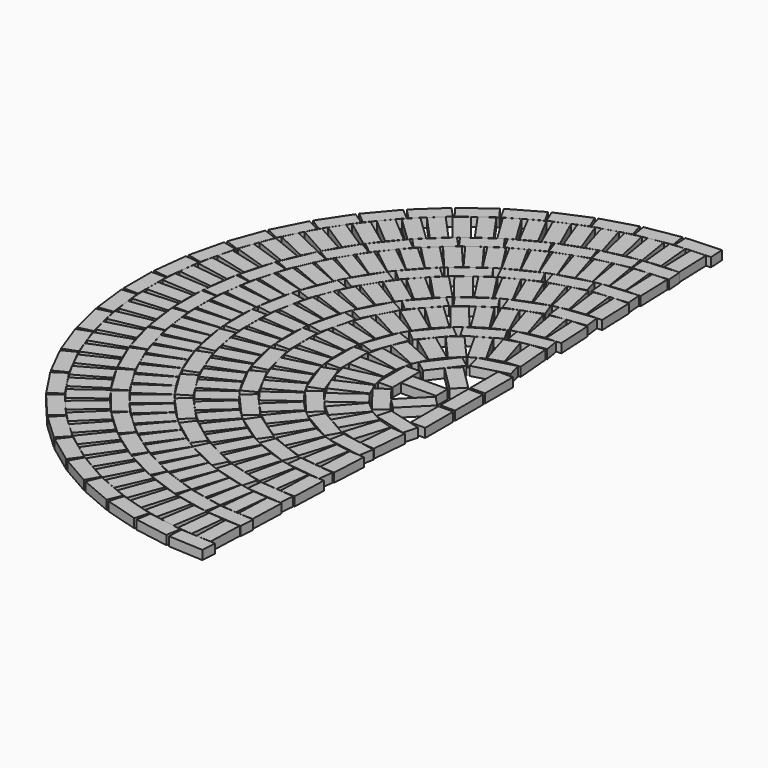
from build123d import *

# Parameters (mm, degrees)
F6_W      = 82.55
F6_H      = 196.85
F7_DEPTH  = 50.8
F9_COUNT  = 14
F9_ANGLE  = 87
F10_W     = 196.85
F10_H     = 82.55
F11_DEPTH = 50.8
F12_COUNT = 25
F12_ANGLE = 88
F13_W     = 82.55
F13_H     = 196.85
F14_DEPTH = 50.8
F15_COUNT = 12
F15_ANGLE = 86
F16_W     = 196.85
F16_H     = 82.55
F17_DEPTH = 50.8
F18_COUNT = 24
F18_ANGLE = 88
F19_W     = 82.55
F19_H     = 196.85
F20_DEPTH = 50.8
F21_COUNT = 9
F21_ANGLE = 85
F22_W     = 196.85
F22_H     = 82.55
F23_DEPTH = 50.8
F24_COUNT = 18
F24_ANGLE = 88
F25_W     = 82.55
F25_H     = 196.85
F26_DEPTH = 50.8
F27_COUNT = 7
F27_ANGLE = 83
F28_W     = 196.85
F28_H     = 82.55
F29_DEPTH = 50.8
F30_COUNT = 13
F30_ANGLE = 87
F31_W     = 82.55
F31_H     = 196.85
F32_DEPTH = 50.8
F33_COUNT = 5
F33_ANGLE = 80
F34_W     = 196.85
F34_H     = 82.55
F35_DEPTH = 50.8
F36_COUNT = 8
F36_ANGLE = 85
F37_W     = 82.55
F37_H     = 196.85
F38_DEPTH = 50.8
F39_COUNT = 3
F39_ANGLE = 75
F40_W     = 196.85
F40_H     = 82.55
F41_DEPTH = 50.8
F42_COUNT = 3
F42_ANGLE = 90
F43_W     = 82.55
F43_H     = 196.85
F44_DEPTH = 50.8


with BuildPart() as f7:
    # F6 (on Top) → F7 (new body)
    with BuildSketch(Plane.XY):
        with Locations((-1784.8744898762, 0)):
            Rectangle(F6_W, F6_H)
    extrude(amount=F7_DEPTH)


with BuildPart() as f9_1:
    # F9: instance of F7
    add(f7.part.rotate(Axis((0, 0, 236.5253269672), (0, 0, 1)), 1 * F9_ANGLE / (F9_COUNT - 1)))


with BuildPart() as f9_2:
    # F9: instance of F7
    add(f7.part.rotate(Axis((0, 0, 236.5253269672), (0, 0, 1)), 2 * F9_ANGLE / (F9_COUNT - 1)))


with BuildPart() as f9_3:
    # F9: instance of F7
    add(f7.part.rotate(Axis((0, 0, 236.5253269672), (0, 0, 1)), 3 * F9_ANGLE / (F9_COUNT - 1)))


with BuildPart() as f9_4:
    # F9: instance of F7
    add(f7.part.rotate(Axis((0, 0, 236.5253269672), (0, 0, 1)), 4 * F9_ANGLE / (F9_COUNT - 1)))


with BuildPart() as f9_5:
    # F9: instance of F7
    add(f7.part.rotate(Axis((0, 0, 236.5253269672), (0, 0, 1)), 5 * F9_ANGLE / (F9_COUNT - 1)))


with BuildPart() as f9_6:
    # F9: instance of F7
    add(f7.part.rotate(Axis((0, 0, 236.5253269672), (0, 0, 1)), 6 * F9_ANGLE / (F9_COUNT - 1)))


with BuildPart() as f9_7:
    # F9: instance of F7
    add(f7.part.rotate(Axis((0, 0, 236.5253269672), (0, 0, 1)), 7 * F9_ANGLE / (F9_COUNT - 1)))


with BuildPart() as f9_8:
    # F9: instance of F7
    add(f7.part.rotate(Axis((0, 0, 236.5253269672), (0, 0, 1)), 8 * F9_ANGLE / (F9_COUNT - 1)))


with BuildPart() as f9_9:
    # F9: instance of F7
    add(f7.part.rotate(Axis((0, 0, 236.5253269672), (0, 0, 1)), 9 * F9_ANGLE / (F9_COUNT - 1)))


with BuildPart() as f9_10:
    # F9: instance of F7
    add(f7.part.rotate(Axis((0, 0, 236.5253269672), (0, 0, 1)), 10 * F9_ANGLE / (F9_COUNT - 1)))


with BuildPart() as f9_11:
    # F9: instance of F7
    add(f7.part.rotate(Axis((0, 0, 236.5253269672), (0, 0, 1)), 11 * F9_ANGLE / (F9_COUNT - 1)))


with BuildPart() as f9_12:
    # F9: instance of F7
    add(f7.part.rotate(Axis((0, 0, 236.5253269672), (0, 0, 1)), 12 * F9_ANGLE / (F9_COUNT - 1)))


with BuildPart() as f9_13:
    # F9: instance of F7
    add(f7.part.rotate(Axis((0, 0, 236.5253269672), (0, 0, 1)), 13 * F9_ANGLE / (F9_COUNT - 1)))


with BuildPart() as f9_14:
    # F9: instance of F7
    add(f7.part.rotate(Axis((0, 0, 236.5253269672), (0, 0, 1)), -1 * F9_ANGLE / (F9_COUNT - 1)))


with BuildPart() as f9_15:
    # F9: instance of F7
    add(f7.part.rotate(Axis((0, 0, 236.5253269672), (0, 0, 1)), -2 * F9_ANGLE / (F9_COUNT - 1)))


with BuildPart() as f9_16:
    # F9: instance of F7
    add(f7.part.rotate(Axis((0, 0, 236.5253269672), (0, 0, 1)), -3 * F9_ANGLE / (F9_COUNT - 1)))


with BuildPart() as f9_17:
    # F9: instance of F7
    add(f7.part.rotate(Axis((0, 0, 236.5253269672), (0, 0, 1)), -4 * F9_ANGLE / (F9_COUNT - 1)))


with BuildPart() as f9_18:
    # F9: instance of F7
    add(f7.part.rotate(Axis((0, 0, 236.5253269672), (0, 0, 1)), -5 * F9_ANGLE / (F9_COUNT - 1)))


with BuildPart() as f9_19:
    # F9: instance of F7
    add(f7.part.rotate(Axis((0, 0, 236.5253269672), (0, 0, 1)), -6 * F9_ANGLE / (F9_COUNT - 1)))


with BuildPart() as f9_20:
    # F9: instance of F7
    add(f7.part.rotate(Axis((0, 0, 236.5253269672), (0, 0, 1)), -7 * F9_ANGLE / (F9_COUNT - 1)))


with BuildPart() as f9_21:
    # F9: instance of F7
    add(f7.part.rotate(Axis((0, 0, 236.5253269672), (0, 0, 1)), -8 * F9_ANGLE / (F9_COUNT - 1)))


with BuildPart() as f9_22:
    # F9: instance of F7
    add(f7.part.rotate(Axis((0, 0, 236.5253269672), (0, 0, 1)), -9 * F9_ANGLE / (F9_COUNT - 1)))


with BuildPart() as f9_23:
    # F9: instance of F7
    add(f7.part.rotate(Axis((0, 0, 236.5253269672), (0, 0, 1)), -10 * F9_ANGLE / (F9_COUNT - 1)))


with BuildPart() as f9_24:
    # F9: instance of F7
    add(f7.part.rotate(Axis((0, 0, 236.5253269672), (0, 0, 1)), -11 * F9_ANGLE / (F9_COUNT - 1)))


with BuildPart() as f9_25:
    # F9: instance of F7
    add(f7.part.rotate(Axis((0, 0, 236.5253269672), (0, 0, 1)), -12 * F9_ANGLE / (F9_COUNT - 1)))


with BuildPart() as f9_26:
    # F9: instance of F7
    add(f7.part.rotate(Axis((0, 0, 236.5253269672), (0, 0, 1)), -13 * F9_ANGLE / (F9_COUNT - 1)))


with BuildPart() as f11:
    # F10 (on Top) → F11 (new body)
    with BuildSketch(Plane.XY):
        with Locations((-1644.6858844452, 0)):
            Rectangle(F10_W, F10_H)
    extrude(amount=F11_DEPTH)


with BuildPart() as f12_1:
    # F12: instance of F11
    add(f11.part.rotate(Axis((0, 0, 236.5253269672), (0, 0, 1)), 1 * F12_ANGLE / (F12_COUNT - 1)))


with BuildPart() as f12_2:
    # F12: instance of F11
    add(f11.part.rotate(Axis((0, 0, 236.5253269672), (0, 0, 1)), 2 * F12_ANGLE / (F12_COUNT - 1)))


with BuildPart() as f12_3:
    # F12: instance of F11
    add(f11.part.rotate(Axis((0, 0, 236.5253269672), (0, 0, 1)), 3 * F12_ANGLE / (F12_COUNT - 1)))


with BuildPart() as f12_4:
    # F12: instance of F11
    add(f11.part.rotate(Axis((0, 0, 236.5253269672), (0, 0, 1)), 4 * F12_ANGLE / (F12_COUNT - 1)))


with BuildPart() as f12_5:
    # F12: instance of F11
    add(f11.part.rotate(Axis((0, 0, 236.5253269672), (0, 0, 1)), 5 * F12_ANGLE / (F12_COUNT - 1)))


with BuildPart() as f12_6:
    # F12: instance of F11
    add(f11.part.rotate(Axis((0, 0, 236.5253269672), (0, 0, 1)), 6 * F12_ANGLE / (F12_COUNT - 1)))


with BuildPart() as f12_7:
    # F12: instance of F11
    add(f11.part.rotate(Axis((0, 0, 236.5253269672), (0, 0, 1)), 7 * F12_ANGLE / (F12_COUNT - 1)))


with BuildPart() as f12_8:
    # F12: instance of F11
    add(f11.part.rotate(Axis((0, 0, 236.5253269672), (0, 0, 1)), 8 * F12_ANGLE / (F12_COUNT - 1)))


with BuildPart() as f12_9:
    # F12: instance of F11
    add(f11.part.rotate(Axis((0, 0, 236.5253269672), (0, 0, 1)), 9 * F12_ANGLE / (F12_COUNT - 1)))


with BuildPart() as f12_10:
    # F12: instance of F11
    add(f11.part.rotate(Axis((0, 0, 236.5253269672), (0, 0, 1)), 10 * F12_ANGLE / (F12_COUNT - 1)))


with BuildPart() as f12_11:
    # F12: instance of F11
    add(f11.part.rotate(Axis((0, 0, 236.5253269672), (0, 0, 1)), 11 * F12_ANGLE / (F12_COUNT - 1)))


with BuildPart() as f12_12:
    # F12: instance of F11
    add(f11.part.rotate(Axis((0, 0, 236.5253269672), (0, 0, 1)), 12 * F12_ANGLE / (F12_COUNT - 1)))


with BuildPart() as f12_13:
    # F12: instance of F11
    add(f11.part.rotate(Axis((0, 0, 236.5253269672), (0, 0, 1)), 13 * F12_ANGLE / (F12_COUNT - 1)))


with BuildPart() as f12_14:
    # F12: instance of F11
    add(f11.part.rotate(Axis((0, 0, 236.5253269672), (0, 0, 1)), 14 * F12_ANGLE / (F12_COUNT - 1)))


with BuildPart() as f12_15:
    # F12: instance of F11
    add(f11.part.rotate(Axis((0, 0, 236.5253269672), (0, 0, 1)), 15 * F12_ANGLE / (F12_COUNT - 1)))


with BuildPart() as f12_16:
    # F12: instance of F11
    add(f11.part.rotate(Axis((0, 0, 236.5253269672), (0, 0, 1)), 16 * F12_ANGLE / (F12_COUNT - 1)))


with BuildPart() as f12_17:
    # F12: instance of F11
    add(f11.part.rotate(Axis((0, 0, 236.5253269672), (0, 0, 1)), 17 * F12_ANGLE / (F12_COUNT - 1)))


with BuildPart() as f12_18:
    # F12: instance of F11
    add(f11.part.rotate(Axis((0, 0, 236.5253269672), (0, 0, 1)), 18 * F12_ANGLE / (F12_COUNT - 1)))


with BuildPart() as f12_19:
    # F12: instance of F11
    add(f11.part.rotate(Axis((0, 0, 236.5253269672), (0, 0, 1)), 19 * F12_ANGLE / (F12_COUNT - 1)))


with BuildPart() as f12_20:
    # F12: instance of F11
    add(f11.part.rotate(Axis((0, 0, 236.5253269672), (0, 0, 1)), 20 * F12_ANGLE / (F12_COUNT - 1)))


with BuildPart() as f12_21:
    # F12: instance of F11
    add(f11.part.rotate(Axis((0, 0, 236.5253269672), (0, 0, 1)), 21 * F12_ANGLE / (F12_COUNT - 1)))


with BuildPart() as f12_22:
    # F12: instance of F11
    add(f11.part.rotate(Axis((0, 0, 236.5253269672), (0, 0, 1)), 22 * F12_ANGLE / (F12_COUNT - 1)))


with BuildPart() as f12_23:
    # F12: instance of F11
    add(f11.part.rotate(Axis((0, 0, 236.5253269672), (0, 0, 1)), 23 * F12_ANGLE / (F12_COUNT - 1)))


with BuildPart() as f12_24:
    # F12: instance of F11
    add(f11.part.rotate(Axis((0, 0, 236.5253269672), (0, 0, 1)), 24 * F12_ANGLE / (F12_COUNT - 1)))


with BuildPart() as f12_25:
    # F12: instance of F11
    add(f11.part.rotate(Axis((0, 0, 236.5253269672), (0, 0, 1)), -1 * F12_ANGLE / (F12_COUNT - 1)))


with BuildPart() as f12_26:
    # F12: instance of F11
    add(f11.part.rotate(Axis((0, 0, 236.5253269672), (0, 0, 1)), -2 * F12_ANGLE / (F12_COUNT - 1)))


with BuildPart() as f12_27:
    # F12: instance of F11
    add(f11.part.rotate(Axis((0, 0, 236.5253269672), (0, 0, 1)), -3 * F12_ANGLE / (F12_COUNT - 1)))


with BuildPart() as f12_28:
    # F12: instance of F11
    add(f11.part.rotate(Axis((0, 0, 236.5253269672), (0, 0, 1)), -4 * F12_ANGLE / (F12_COUNT - 1)))


with BuildPart() as f12_29:
    # F12: instance of F11
    add(f11.part.rotate(Axis((0, 0, 236.5253269672), (0, 0, 1)), -5 * F12_ANGLE / (F12_COUNT - 1)))


with BuildPart() as f12_30:
    # F12: instance of F11
    add(f11.part.rotate(Axis((0, 0, 236.5253269672), (0, 0, 1)), -6 * F12_ANGLE / (F12_COUNT - 1)))


with BuildPart() as f12_31:
    # F12: instance of F11
    add(f11.part.rotate(Axis((0, 0, 236.5253269672), (0, 0, 1)), -7 * F12_ANGLE / (F12_COUNT - 1)))


with BuildPart() as f12_32:
    # F12: instance of F11
    add(f11.part.rotate(Axis((0, 0, 236.5253269672), (0, 0, 1)), -8 * F12_ANGLE / (F12_COUNT - 1)))


with BuildPart() as f12_33:
    # F12: instance of F11
    add(f11.part.rotate(Axis((0, 0, 236.5253269672), (0, 0, 1)), -9 * F12_ANGLE / (F12_COUNT - 1)))


with BuildPart() as f12_34:
    # F12: instance of F11
    add(f11.part.rotate(Axis((0, 0, 236.5253269672), (0, 0, 1)), -10 * F12_ANGLE / (F12_COUNT - 1)))


with BuildPart() as f12_35:
    # F12: instance of F11
    add(f11.part.rotate(Axis((0, 0, 236.5253269672), (0, 0, 1)), -11 * F12_ANGLE / (F12_COUNT - 1)))


with BuildPart() as f12_36:
    # F12: instance of F11
    add(f11.part.rotate(Axis((0, 0, 236.5253269672), (0, 0, 1)), -12 * F12_ANGLE / (F12_COUNT - 1)))


with BuildPart() as f12_37:
    # F12: instance of F11
    add(f11.part.rotate(Axis((0, 0, 236.5253269672), (0, 0, 1)), -13 * F12_ANGLE / (F12_COUNT - 1)))


with BuildPart() as f12_38:
    # F12: instance of F11
    add(f11.part.rotate(Axis((0, 0, 236.5253269672), (0, 0, 1)), -14 * F12_ANGLE / (F12_COUNT - 1)))


with BuildPart() as f12_39:
    # F12: instance of F11
    add(f11.part.rotate(Axis((0, 0, 236.5253269672), (0, 0, 1)), -15 * F12_ANGLE / (F12_COUNT - 1)))


with BuildPart() as f12_40:
    # F12: instance of F11
    add(f11.part.rotate(Axis((0, 0, 236.5253269672), (0, 0, 1)), -16 * F12_ANGLE / (F12_COUNT - 1)))


with BuildPart() as f12_41:
    # F12: instance of F11
    add(f11.part.rotate(Axis((0, 0, 236.5253269672), (0, 0, 1)), -17 * F12_ANGLE / (F12_COUNT - 1)))


with BuildPart() as f12_42:
    # F12: instance of F11
    add(f11.part.rotate(Axis((0, 0, 236.5253269672), (0, 0, 1)), -18 * F12_ANGLE / (F12_COUNT - 1)))


with BuildPart() as f12_43:
    # F12: instance of F11
    add(f11.part.rotate(Axis((0, 0, 236.5253269672), (0, 0, 1)), -19 * F12_ANGLE / (F12_COUNT - 1)))


with BuildPart() as f12_44:
    # F12: instance of F11
    add(f11.part.rotate(Axis((0, 0, 236.5253269672), (0, 0, 1)), -20 * F12_ANGLE / (F12_COUNT - 1)))


with BuildPart() as f12_45:
    # F12: instance of F11
    add(f11.part.rotate(Axis((0, 0, 236.5253269672), (0, 0, 1)), -21 * F12_ANGLE / (F12_COUNT - 1)))


with BuildPart() as f12_46:
    # F12: instance of F11
    add(f11.part.rotate(Axis((0, 0, 236.5253269672), (0, 0, 1)), -22 * F12_ANGLE / (F12_COUNT - 1)))


with BuildPart() as f12_47:
    # F12: instance of F11
    add(f11.part.rotate(Axis((0, 0, 236.5253269672), (0, 0, 1)), -23 * F12_ANGLE / (F12_COUNT - 1)))


with BuildPart() as f12_48:
    # F12: instance of F11
    add(f11.part.rotate(Axis((0, 0, 236.5253269672), (0, 0, 1)), -24 * F12_ANGLE / (F12_COUNT - 1)))


with BuildPart() as f14:
    # F13 (on Top) → F14 (new body)
    with BuildSketch(Plane.XY):
        with Locations((-1501.8501543995, 0)):
            Rectangle(F13_W, F13_H)
    extrude(amount=F14_DEPTH)


with BuildPart() as f15_1:
    # F15: instance of F14
    add(f14.part.rotate(Axis((0, 0, 236.5253269672), (0, 0, 1)), 1 * F15_ANGLE / (F15_COUNT - 1)))


with BuildPart() as f15_2:
    # F15: instance of F14
    add(f14.part.rotate(Axis((0, 0, 236.5253269672), (0, 0, 1)), 2 * F15_ANGLE / (F15_COUNT - 1)))


with BuildPart() as f15_3:
    # F15: instance of F14
    add(f14.part.rotate(Axis((0, 0, 236.5253269672), (0, 0, 1)), 3 * F15_ANGLE / (F15_COUNT - 1)))


with BuildPart() as f15_4:
    # F15: instance of F14
    add(f14.part.rotate(Axis((0, 0, 236.5253269672), (0, 0, 1)), 4 * F15_ANGLE / (F15_COUNT - 1)))


with BuildPart() as f15_5:
    # F15: instance of F14
    add(f14.part.rotate(Axis((0, 0, 236.5253269672), (0, 0, 1)), 5 * F15_ANGLE / (F15_COUNT - 1)))


with BuildPart() as f15_6:
    # F15: instance of F14
    add(f14.part.rotate(Axis((0, 0, 236.5253269672), (0, 0, 1)), 6 * F15_ANGLE / (F15_COUNT - 1)))


with BuildPart() as f15_7:
    # F15: instance of F14
    add(f14.part.rotate(Axis((0, 0, 236.5253269672), (0, 0, 1)), 7 * F15_ANGLE / (F15_COUNT - 1)))


with BuildPart() as f15_8:
    # F15: instance of F14
    add(f14.part.rotate(Axis((0, 0, 236.5253269672), (0, 0, 1)), 8 * F15_ANGLE / (F15_COUNT - 1)))


with BuildPart() as f15_9:
    # F15: instance of F14
    add(f14.part.rotate(Axis((0, 0, 236.5253269672), (0, 0, 1)), 9 * F15_ANGLE / (F15_COUNT - 1)))


with BuildPart() as f15_10:
    # F15: instance of F14
    add(f14.part.rotate(Axis((0, 0, 236.5253269672), (0, 0, 1)), 10 * F15_ANGLE / (F15_COUNT - 1)))


with BuildPart() as f15_11:
    # F15: instance of F14
    add(f14.part.rotate(Axis((0, 0, 236.5253269672), (0, 0, 1)), 11 * F15_ANGLE / (F15_COUNT - 1)))


with BuildPart() as f15_12:
    # F15: instance of F14
    add(f14.part.rotate(Axis((0, 0, 236.5253269672), (0, 0, 1)), -1 * F15_ANGLE / (F15_COUNT - 1)))


with BuildPart() as f15_13:
    # F15: instance of F14
    add(f14.part.rotate(Axis((0, 0, 236.5253269672), (0, 0, 1)), -2 * F15_ANGLE / (F15_COUNT - 1)))


with BuildPart() as f15_14:
    # F15: instance of F14
    add(f14.part.rotate(Axis((0, 0, 236.5253269672), (0, 0, 1)), -3 * F15_ANGLE / (F15_COUNT - 1)))


with BuildPart() as f15_15:
    # F15: instance of F14
    add(f14.part.rotate(Axis((0, 0, 236.5253269672), (0, 0, 1)), -4 * F15_ANGLE / (F15_COUNT - 1)))


with BuildPart() as f15_16:
    # F15: instance of F14
    add(f14.part.rotate(Axis((0, 0, 236.5253269672), (0, 0, 1)), -5 * F15_ANGLE / (F15_COUNT - 1)))


with BuildPart() as f15_17:
    # F15: instance of F14
    add(f14.part.rotate(Axis((0, 0, 236.5253269672), (0, 0, 1)), -6 * F15_ANGLE / (F15_COUNT - 1)))


with BuildPart() as f15_18:
    # F15: instance of F14
    add(f14.part.rotate(Axis((0, 0, 236.5253269672), (0, 0, 1)), -7 * F15_ANGLE / (F15_COUNT - 1)))


with BuildPart() as f15_19:
    # F15: instance of F14
    add(f14.part.rotate(Axis((0, 0, 236.5253269672), (0, 0, 1)), -8 * F15_ANGLE / (F15_COUNT - 1)))


with BuildPart() as f15_20:
    # F15: instance of F14
    add(f14.part.rotate(Axis((0, 0, 236.5253269672), (0, 0, 1)), -9 * F15_ANGLE / (F15_COUNT - 1)))


with BuildPart() as f15_21:
    # F15: instance of F14
    add(f14.part.rotate(Axis((0, 0, 236.5253269672), (0, 0, 1)), -10 * F15_ANGLE / (F15_COUNT - 1)))


with BuildPart() as f15_22:
    # F15: instance of F14
    add(f14.part.rotate(Axis((0, 0, 236.5253269672), (0, 0, 1)), -11 * F15_ANGLE / (F15_COUNT - 1)))


with BuildPart() as f17:
    # F16 (on Top) → F17 (new body)
    with BuildSketch(Plane.XY):
        with Locations((-1361.566834232, 0)):
            Rectangle(F16_W, F16_H)
    extrude(amount=F17_DEPTH)


with BuildPart() as f18_1:
    # F18: instance of F17
    add(f17.part.rotate(Axis((0, 0, 236.5253269672), (0, 0, 1)), 1 * F18_ANGLE / (F18_COUNT - 1)))


with BuildPart() as f18_2:
    # F18: instance of F17
    add(f17.part.rotate(Axis((0, 0, 236.5253269672), (0, 0, 1)), 2 * F18_ANGLE / (F18_COUNT - 1)))


with BuildPart() as f18_3:
    # F18: instance of F17
    add(f17.part.rotate(Axis((0, 0, 236.5253269672), (0, 0, 1)), 3 * F18_ANGLE / (F18_COUNT - 1)))


with BuildPart() as f18_4:
    # F18: instance of F17
    add(f17.part.rotate(Axis((0, 0, 236.5253269672), (0, 0, 1)), 4 * F18_ANGLE / (F18_COUNT - 1)))


with BuildPart() as f18_5:
    # F18: instance of F17
    add(f17.part.rotate(Axis((0, 0, 236.5253269672), (0, 0, 1)), 5 * F18_ANGLE / (F18_COUNT - 1)))


with BuildPart() as f18_6:
    # F18: instance of F17
    add(f17.part.rotate(Axis((0, 0, 236.5253269672), (0, 0, 1)), 6 * F18_ANGLE / (F18_COUNT - 1)))


with BuildPart() as f18_7:
    # F18: instance of F17
    add(f17.part.rotate(Axis((0, 0, 236.5253269672), (0, 0, 1)), 7 * F18_ANGLE / (F18_COUNT - 1)))


with BuildPart() as f18_8:
    # F18: instance of F17
    add(f17.part.rotate(Axis((0, 0, 236.5253269672), (0, 0, 1)), 8 * F18_ANGLE / (F18_COUNT - 1)))


with BuildPart() as f18_9:
    # F18: instance of F17
    add(f17.part.rotate(Axis((0, 0, 236.5253269672), (0, 0, 1)), 9 * F18_ANGLE / (F18_COUNT - 1)))


with BuildPart() as f18_10:
    # F18: instance of F17
    add(f17.part.rotate(Axis((0, 0, 236.5253269672), (0, 0, 1)), 10 * F18_ANGLE / (F18_COUNT - 1)))


with BuildPart() as f18_11:
    # F18: instance of F17
    add(f17.part.rotate(Axis((0, 0, 236.5253269672), (0, 0, 1)), 11 * F18_ANGLE / (F18_COUNT - 1)))


with BuildPart() as f18_12:
    # F18: instance of F17
    add(f17.part.rotate(Axis((0, 0, 236.5253269672), (0, 0, 1)), 12 * F18_ANGLE / (F18_COUNT - 1)))


with BuildPart() as f18_13:
    # F18: instance of F17
    add(f17.part.rotate(Axis((0, 0, 236.5253269672), (0, 0, 1)), 13 * F18_ANGLE / (F18_COUNT - 1)))


with BuildPart() as f18_14:
    # F18: instance of F17
    add(f17.part.rotate(Axis((0, 0, 236.5253269672), (0, 0, 1)), 14 * F18_ANGLE / (F18_COUNT - 1)))


with BuildPart() as f18_15:
    # F18: instance of F17
    add(f17.part.rotate(Axis((0, 0, 236.5253269672), (0, 0, 1)), 15 * F18_ANGLE / (F18_COUNT - 1)))


with BuildPart() as f18_16:
    # F18: instance of F17
    add(f17.part.rotate(Axis((0, 0, 236.5253269672), (0, 0, 1)), 16 * F18_ANGLE / (F18_COUNT - 1)))


with BuildPart() as f18_17:
    # F18: instance of F17
    add(f17.part.rotate(Axis((0, 0, 236.5253269672), (0, 0, 1)), 17 * F18_ANGLE / (F18_COUNT - 1)))


with BuildPart() as f18_18:
    # F18: instance of F17
    add(f17.part.rotate(Axis((0, 0, 236.5253269672), (0, 0, 1)), 18 * F18_ANGLE / (F18_COUNT - 1)))


with BuildPart() as f18_19:
    # F18: instance of F17
    add(f17.part.rotate(Axis((0, 0, 236.5253269672), (0, 0, 1)), 19 * F18_ANGLE / (F18_COUNT - 1)))


with BuildPart() as f18_20:
    # F18: instance of F17
    add(f17.part.rotate(Axis((0, 0, 236.5253269672), (0, 0, 1)), 20 * F18_ANGLE / (F18_COUNT - 1)))


with BuildPart() as f18_21:
    # F18: instance of F17
    add(f17.part.rotate(Axis((0, 0, 236.5253269672), (0, 0, 1)), 21 * F18_ANGLE / (F18_COUNT - 1)))


with BuildPart() as f18_22:
    # F18: instance of F17
    add(f17.part.rotate(Axis((0, 0, 236.5253269672), (0, 0, 1)), 22 * F18_ANGLE / (F18_COUNT - 1)))


with BuildPart() as f18_23:
    # F18: instance of F17
    add(f17.part.rotate(Axis((0, 0, 236.5253269672), (0, 0, 1)), 23 * F18_ANGLE / (F18_COUNT - 1)))


with BuildPart() as f18_24:
    # F18: instance of F17
    add(f17.part.rotate(Axis((0, 0, 236.5253269672), (0, 0, 1)), -1 * F18_ANGLE / (F18_COUNT - 1)))


with BuildPart() as f18_25:
    # F18: instance of F17
    add(f17.part.rotate(Axis((0, 0, 236.5253269672), (0, 0, 1)), -2 * F18_ANGLE / (F18_COUNT - 1)))


with BuildPart() as f18_26:
    # F18: instance of F17
    add(f17.part.rotate(Axis((0, 0, 236.5253269672), (0, 0, 1)), -3 * F18_ANGLE / (F18_COUNT - 1)))


with BuildPart() as f18_27:
    # F18: instance of F17
    add(f17.part.rotate(Axis((0, 0, 236.5253269672), (0, 0, 1)), -4 * F18_ANGLE / (F18_COUNT - 1)))


with BuildPart() as f18_28:
    # F18: instance of F17
    add(f17.part.rotate(Axis((0, 0, 236.5253269672), (0, 0, 1)), -5 * F18_ANGLE / (F18_COUNT - 1)))


with BuildPart() as f18_29:
    # F18: instance of F17
    add(f17.part.rotate(Axis((0, 0, 236.5253269672), (0, 0, 1)), -6 * F18_ANGLE / (F18_COUNT - 1)))


with BuildPart() as f18_30:
    # F18: instance of F17
    add(f17.part.rotate(Axis((0, 0, 236.5253269672), (0, 0, 1)), -7 * F18_ANGLE / (F18_COUNT - 1)))


with BuildPart() as f18_31:
    # F18: instance of F17
    add(f17.part.rotate(Axis((0, 0, 236.5253269672), (0, 0, 1)), -8 * F18_ANGLE / (F18_COUNT - 1)))


with BuildPart() as f18_32:
    # F18: instance of F17
    add(f17.part.rotate(Axis((0, 0, 236.5253269672), (0, 0, 1)), -9 * F18_ANGLE / (F18_COUNT - 1)))


with BuildPart() as f18_33:
    # F18: instance of F17
    add(f17.part.rotate(Axis((0, 0, 236.5253269672), (0, 0, 1)), -10 * F18_ANGLE / (F18_COUNT - 1)))


with BuildPart() as f18_34:
    # F18: instance of F17
    add(f17.part.rotate(Axis((0, 0, 236.5253269672), (0, 0, 1)), -11 * F18_ANGLE / (F18_COUNT - 1)))


with BuildPart() as f18_35:
    # F18: instance of F17
    add(f17.part.rotate(Axis((0, 0, 236.5253269672), (0, 0, 1)), -12 * F18_ANGLE / (F18_COUNT - 1)))


with BuildPart() as f18_36:
    # F18: instance of F17
    add(f17.part.rotate(Axis((0, 0, 236.5253269672), (0, 0, 1)), -13 * F18_ANGLE / (F18_COUNT - 1)))


with BuildPart() as f18_37:
    # F18: instance of F17
    add(f17.part.rotate(Axis((0, 0, 236.5253269672), (0, 0, 1)), -14 * F18_ANGLE / (F18_COUNT - 1)))


with BuildPart() as f18_38:
    # F18: instance of F17
    add(f17.part.rotate(Axis((0, 0, 236.5253269672), (0, 0, 1)), -15 * F18_ANGLE / (F18_COUNT - 1)))


with BuildPart() as f18_39:
    # F18: instance of F17
    add(f17.part.rotate(Axis((0, 0, 236.5253269672), (0, 0, 1)), -16 * F18_ANGLE / (F18_COUNT - 1)))


with BuildPart() as f18_40:
    # F18: instance of F17
    add(f17.part.rotate(Axis((0, 0, 236.5253269672), (0, 0, 1)), -17 * F18_ANGLE / (F18_COUNT - 1)))


with BuildPart() as f18_41:
    # F18: instance of F17
    add(f17.part.rotate(Axis((0, 0, 236.5253269672), (0, 0, 1)), -18 * F18_ANGLE / (F18_COUNT - 1)))


with BuildPart() as f18_42:
    # F18: instance of F17
    add(f17.part.rotate(Axis((0, 0, 236.5253269672), (0, 0, 1)), -19 * F18_ANGLE / (F18_COUNT - 1)))


with BuildPart() as f18_43:
    # F18: instance of F17
    add(f17.part.rotate(Axis((0, 0, 236.5253269672), (0, 0, 1)), -20 * F18_ANGLE / (F18_COUNT - 1)))


with BuildPart() as f18_44:
    # F18: instance of F17
    add(f17.part.rotate(Axis((0, 0, 236.5253269672), (0, 0, 1)), -21 * F18_ANGLE / (F18_COUNT - 1)))


with BuildPart() as f18_45:
    # F18: instance of F17
    add(f17.part.rotate(Axis((0, 0, 236.5253269672), (0, 0, 1)), -22 * F18_ANGLE / (F18_COUNT - 1)))


with BuildPart() as f18_46:
    # F18: instance of F17
    add(f17.part.rotate(Axis((0, 0, 236.5253269672), (0, 0, 1)), -23 * F18_ANGLE / (F18_COUNT - 1)))


with BuildPart() as f20:
    # F19 (on Top) → F20 (new body)
    with BuildSketch(Plane.XY):
        with Locations((-1218.0263192885, 0)):
            Rectangle(F19_W, F19_H)
    extrude(amount=F20_DEPTH)


with BuildPart() as f21_1:
    # F21: instance of F20
    add(f20.part.rotate(Axis((0, 0, 236.5253269672), (0, 0, 1)), 1 * F21_ANGLE / (F21_COUNT - 1)))


with BuildPart() as f21_2:
    # F21: instance of F20
    add(f20.part.rotate(Axis((0, 0, 236.5253269672), (0, 0, 1)), 2 * F21_ANGLE / (F21_COUNT - 1)))


with BuildPart() as f21_3:
    # F21: instance of F20
    add(f20.part.rotate(Axis((0, 0, 236.5253269672), (0, 0, 1)), 3 * F21_ANGLE / (F21_COUNT - 1)))


with BuildPart() as f21_4:
    # F21: instance of F20
    add(f20.part.rotate(Axis((0, 0, 236.5253269672), (0, 0, 1)), 4 * F21_ANGLE / (F21_COUNT - 1)))


with BuildPart() as f21_5:
    # F21: instance of F20
    add(f20.part.rotate(Axis((0, 0, 236.5253269672), (0, 0, 1)), 5 * F21_ANGLE / (F21_COUNT - 1)))


with BuildPart() as f21_6:
    # F21: instance of F20
    add(f20.part.rotate(Axis((0, 0, 236.5253269672), (0, 0, 1)), 6 * F21_ANGLE / (F21_COUNT - 1)))


with BuildPart() as f21_7:
    # F21: instance of F20
    add(f20.part.rotate(Axis((0, 0, 236.5253269672), (0, 0, 1)), 7 * F21_ANGLE / (F21_COUNT - 1)))


with BuildPart() as f21_8:
    # F21: instance of F20
    add(f20.part.rotate(Axis((0, 0, 236.5253269672), (0, 0, 1)), 8 * F21_ANGLE / (F21_COUNT - 1)))


with BuildPart() as f21_9:
    # F21: instance of F20
    add(f20.part.rotate(Axis((0, 0, 236.5253269672), (0, 0, 1)), -1 * F21_ANGLE / (F21_COUNT - 1)))


with BuildPart() as f21_10:
    # F21: instance of F20
    add(f20.part.rotate(Axis((0, 0, 236.5253269672), (0, 0, 1)), -2 * F21_ANGLE / (F21_COUNT - 1)))


with BuildPart() as f21_11:
    # F21: instance of F20
    add(f20.part.rotate(Axis((0, 0, 236.5253269672), (0, 0, 1)), -3 * F21_ANGLE / (F21_COUNT - 1)))


with BuildPart() as f21_12:
    # F21: instance of F20
    add(f20.part.rotate(Axis((0, 0, 236.5253269672), (0, 0, 1)), -4 * F21_ANGLE / (F21_COUNT - 1)))


with BuildPart() as f21_13:
    # F21: instance of F20
    add(f20.part.rotate(Axis((0, 0, 236.5253269672), (0, 0, 1)), -5 * F21_ANGLE / (F21_COUNT - 1)))


with BuildPart() as f21_14:
    # F21: instance of F20
    add(f20.part.rotate(Axis((0, 0, 236.5253269672), (0, 0, 1)), -6 * F21_ANGLE / (F21_COUNT - 1)))


with BuildPart() as f21_15:
    # F21: instance of F20
    add(f20.part.rotate(Axis((0, 0, 236.5253269672), (0, 0, 1)), -7 * F21_ANGLE / (F21_COUNT - 1)))


with BuildPart() as f21_16:
    # F21: instance of F20
    add(f20.part.rotate(Axis((0, 0, 236.5253269672), (0, 0, 1)), -8 * F21_ANGLE / (F21_COUNT - 1)))


with BuildPart() as f23:
    # F22 (on Top) → F23 (new body)
    with BuildSketch(Plane.XY):
        with Locations((-1077.6022283507, 0)):
            Rectangle(F22_W, F22_H)
    extrude(amount=F23_DEPTH)


with BuildPart() as f24_1:
    # F24: instance of F23
    add(f23.part.rotate(Axis((0, 0, 236.5253269672), (0, 0, 1)), 1 * F24_ANGLE / (F24_COUNT - 1)))


with BuildPart() as f24_2:
    # F24: instance of F23
    add(f23.part.rotate(Axis((0, 0, 236.5253269672), (0, 0, 1)), 2 * F24_ANGLE / (F24_COUNT - 1)))


with BuildPart() as f24_3:
    # F24: instance of F23
    add(f23.part.rotate(Axis((0, 0, 236.5253269672), (0, 0, 1)), 3 * F24_ANGLE / (F24_COUNT - 1)))


with BuildPart() as f24_4:
    # F24: instance of F23
    add(f23.part.rotate(Axis((0, 0, 236.5253269672), (0, 0, 1)), 4 * F24_ANGLE / (F24_COUNT - 1)))


with BuildPart() as f24_5:
    # F24: instance of F23
    add(f23.part.rotate(Axis((0, 0, 236.5253269672), (0, 0, 1)), 5 * F24_ANGLE / (F24_COUNT - 1)))


with BuildPart() as f24_6:
    # F24: instance of F23
    add(f23.part.rotate(Axis((0, 0, 236.5253269672), (0, 0, 1)), 6 * F24_ANGLE / (F24_COUNT - 1)))


with BuildPart() as f24_7:
    # F24: instance of F23
    add(f23.part.rotate(Axis((0, 0, 236.5253269672), (0, 0, 1)), 7 * F24_ANGLE / (F24_COUNT - 1)))


with BuildPart() as f24_8:
    # F24: instance of F23
    add(f23.part.rotate(Axis((0, 0, 236.5253269672), (0, 0, 1)), 8 * F24_ANGLE / (F24_COUNT - 1)))


with BuildPart() as f24_9:
    # F24: instance of F23
    add(f23.part.rotate(Axis((0, 0, 236.5253269672), (0, 0, 1)), 9 * F24_ANGLE / (F24_COUNT - 1)))


with BuildPart() as f24_10:
    # F24: instance of F23
    add(f23.part.rotate(Axis((0, 0, 236.5253269672), (0, 0, 1)), 10 * F24_ANGLE / (F24_COUNT - 1)))


with BuildPart() as f24_11:
    # F24: instance of F23
    add(f23.part.rotate(Axis((0, 0, 236.5253269672), (0, 0, 1)), 11 * F24_ANGLE / (F24_COUNT - 1)))


with BuildPart() as f24_12:
    # F24: instance of F23
    add(f23.part.rotate(Axis((0, 0, 236.5253269672), (0, 0, 1)), 12 * F24_ANGLE / (F24_COUNT - 1)))


with BuildPart() as f24_13:
    # F24: instance of F23
    add(f23.part.rotate(Axis((0, 0, 236.5253269672), (0, 0, 1)), 13 * F24_ANGLE / (F24_COUNT - 1)))


with BuildPart() as f24_14:
    # F24: instance of F23
    add(f23.part.rotate(Axis((0, 0, 236.5253269672), (0, 0, 1)), 14 * F24_ANGLE / (F24_COUNT - 1)))


with BuildPart() as f24_15:
    # F24: instance of F23
    add(f23.part.rotate(Axis((0, 0, 236.5253269672), (0, 0, 1)), 15 * F24_ANGLE / (F24_COUNT - 1)))


with BuildPart() as f24_16:
    # F24: instance of F23
    add(f23.part.rotate(Axis((0, 0, 236.5253269672), (0, 0, 1)), 16 * F24_ANGLE / (F24_COUNT - 1)))


with BuildPart() as f24_17:
    # F24: instance of F23
    add(f23.part.rotate(Axis((0, 0, 236.5253269672), (0, 0, 1)), 17 * F24_ANGLE / (F24_COUNT - 1)))


with BuildPart() as f24_18:
    # F24: instance of F23
    add(f23.part.rotate(Axis((0, 0, 236.5253269672), (0, 0, 1)), -1 * F24_ANGLE / (F24_COUNT - 1)))


with BuildPart() as f24_19:
    # F24: instance of F23
    add(f23.part.rotate(Axis((0, 0, 236.5253269672), (0, 0, 1)), -2 * F24_ANGLE / (F24_COUNT - 1)))


with BuildPart() as f24_20:
    # F24: instance of F23
    add(f23.part.rotate(Axis((0, 0, 236.5253269672), (0, 0, 1)), -3 * F24_ANGLE / (F24_COUNT - 1)))


with BuildPart() as f24_21:
    # F24: instance of F23
    add(f23.part.rotate(Axis((0, 0, 236.5253269672), (0, 0, 1)), -4 * F24_ANGLE / (F24_COUNT - 1)))


with BuildPart() as f24_22:
    # F24: instance of F23
    add(f23.part.rotate(Axis((0, 0, 236.5253269672), (0, 0, 1)), -5 * F24_ANGLE / (F24_COUNT - 1)))


with BuildPart() as f24_23:
    # F24: instance of F23
    add(f23.part.rotate(Axis((0, 0, 236.5253269672), (0, 0, 1)), -6 * F24_ANGLE / (F24_COUNT - 1)))


with BuildPart() as f24_24:
    # F24: instance of F23
    add(f23.part.rotate(Axis((0, 0, 236.5253269672), (0, 0, 1)), -7 * F24_ANGLE / (F24_COUNT - 1)))


with BuildPart() as f24_25:
    # F24: instance of F23
    add(f23.part.rotate(Axis((0, 0, 236.5253269672), (0, 0, 1)), -8 * F24_ANGLE / (F24_COUNT - 1)))


with BuildPart() as f24_26:
    # F24: instance of F23
    add(f23.part.rotate(Axis((0, 0, 236.5253269672), (0, 0, 1)), -9 * F24_ANGLE / (F24_COUNT - 1)))


with BuildPart() as f24_27:
    # F24: instance of F23
    add(f23.part.rotate(Axis((0, 0, 236.5253269672), (0, 0, 1)), -10 * F24_ANGLE / (F24_COUNT - 1)))


with BuildPart() as f24_28:
    # F24: instance of F23
    add(f23.part.rotate(Axis((0, 0, 236.5253269672), (0, 0, 1)), -11 * F24_ANGLE / (F24_COUNT - 1)))


with BuildPart() as f24_29:
    # F24: instance of F23
    add(f23.part.rotate(Axis((0, 0, 236.5253269672), (0, 0, 1)), -12 * F24_ANGLE / (F24_COUNT - 1)))


with BuildPart() as f24_30:
    # F24: instance of F23
    add(f23.part.rotate(Axis((0, 0, 236.5253269672), (0, 0, 1)), -13 * F24_ANGLE / (F24_COUNT - 1)))


with BuildPart() as f24_31:
    # F24: instance of F23
    add(f23.part.rotate(Axis((0, 0, 236.5253269672), (0, 0, 1)), -14 * F24_ANGLE / (F24_COUNT - 1)))


with BuildPart() as f24_32:
    # F24: instance of F23
    add(f23.part.rotate(Axis((0, 0, 236.5253269672), (0, 0, 1)), -15 * F24_ANGLE / (F24_COUNT - 1)))


with BuildPart() as f24_33:
    # F24: instance of F23
    add(f23.part.rotate(Axis((0, 0, 236.5253269672), (0, 0, 1)), -16 * F24_ANGLE / (F24_COUNT - 1)))


with BuildPart() as f24_34:
    # F24: instance of F23
    add(f23.part.rotate(Axis((0, 0, 236.5253269672), (0, 0, 1)), -17 * F24_ANGLE / (F24_COUNT - 1)))


with BuildPart() as f26:
    # F25 (on Top) → F26 (new body)
    with BuildSketch(Plane.XY):
        with Locations((-932.9429242324, 0)):
            Rectangle(F25_W, F25_H)
    extrude(amount=F26_DEPTH)


with BuildPart() as f27_1:
    # F27: instance of F26
    add(f26.part.rotate(Axis((0, 0, 236.5253269672), (0, 0, 1)), 1 * F27_ANGLE / (F27_COUNT - 1)))


with BuildPart() as f27_2:
    # F27: instance of F26
    add(f26.part.rotate(Axis((0, 0, 236.5253269672), (0, 0, 1)), 2 * F27_ANGLE / (F27_COUNT - 1)))


with BuildPart() as f27_3:
    # F27: instance of F26
    add(f26.part.rotate(Axis((0, 0, 236.5253269672), (0, 0, 1)), 3 * F27_ANGLE / (F27_COUNT - 1)))


with BuildPart() as f27_4:
    # F27: instance of F26
    add(f26.part.rotate(Axis((0, 0, 236.5253269672), (0, 0, 1)), 4 * F27_ANGLE / (F27_COUNT - 1)))


with BuildPart() as f27_5:
    # F27: instance of F26
    add(f26.part.rotate(Axis((0, 0, 236.5253269672), (0, 0, 1)), 5 * F27_ANGLE / (F27_COUNT - 1)))


with BuildPart() as f27_6:
    # F27: instance of F26
    add(f26.part.rotate(Axis((0, 0, 236.5253269672), (0, 0, 1)), 6 * F27_ANGLE / (F27_COUNT - 1)))


with BuildPart() as f27_7:
    # F27: instance of F26
    add(f26.part.rotate(Axis((0, 0, 236.5253269672), (0, 0, 1)), -1 * F27_ANGLE / (F27_COUNT - 1)))


with BuildPart() as f27_8:
    # F27: instance of F26
    add(f26.part.rotate(Axis((0, 0, 236.5253269672), (0, 0, 1)), -2 * F27_ANGLE / (F27_COUNT - 1)))


with BuildPart() as f27_9:
    # F27: instance of F26
    add(f26.part.rotate(Axis((0, 0, 236.5253269672), (0, 0, 1)), -3 * F27_ANGLE / (F27_COUNT - 1)))


with BuildPart() as f27_10:
    # F27: instance of F26
    add(f26.part.rotate(Axis((0, 0, 236.5253269672), (0, 0, 1)), -4 * F27_ANGLE / (F27_COUNT - 1)))


with BuildPart() as f27_11:
    # F27: instance of F26
    add(f26.part.rotate(Axis((0, 0, 236.5253269672), (0, 0, 1)), -5 * F27_ANGLE / (F27_COUNT - 1)))


with BuildPart() as f27_12:
    # F27: instance of F26
    add(f26.part.rotate(Axis((0, 0, 236.5253269672), (0, 0, 1)), -6 * F27_ANGLE / (F27_COUNT - 1)))


with BuildPart() as f29:
    # F28 (on Top) → F29 (new body)
    with BuildSketch(Plane.XY):
        with Locations((-792.2871092025, 0)):
            Rectangle(F28_W, F28_H)
    extrude(amount=F29_DEPTH)


with BuildPart() as f30_1:
    # F30: instance of F29
    add(f29.part.rotate(Axis((0, 0, 236.5253269672), (0, 0, 1)), 1 * F30_ANGLE / (F30_COUNT - 1)))


with BuildPart() as f30_2:
    # F30: instance of F29
    add(f29.part.rotate(Axis((0, 0, 236.5253269672), (0, 0, 1)), 2 * F30_ANGLE / (F30_COUNT - 1)))


with BuildPart() as f30_3:
    # F30: instance of F29
    add(f29.part.rotate(Axis((0, 0, 236.5253269672), (0, 0, 1)), 3 * F30_ANGLE / (F30_COUNT - 1)))


with BuildPart() as f30_4:
    # F30: instance of F29
    add(f29.part.rotate(Axis((0, 0, 236.5253269672), (0, 0, 1)), 4 * F30_ANGLE / (F30_COUNT - 1)))


with BuildPart() as f30_5:
    # F30: instance of F29
    add(f29.part.rotate(Axis((0, 0, 236.5253269672), (0, 0, 1)), 5 * F30_ANGLE / (F30_COUNT - 1)))


with BuildPart() as f30_6:
    # F30: instance of F29
    add(f29.part.rotate(Axis((0, 0, 236.5253269672), (0, 0, 1)), 6 * F30_ANGLE / (F30_COUNT - 1)))


with BuildPart() as f30_7:
    # F30: instance of F29
    add(f29.part.rotate(Axis((0, 0, 236.5253269672), (0, 0, 1)), 7 * F30_ANGLE / (F30_COUNT - 1)))


with BuildPart() as f30_8:
    # F30: instance of F29
    add(f29.part.rotate(Axis((0, 0, 236.5253269672), (0, 0, 1)), 8 * F30_ANGLE / (F30_COUNT - 1)))


with BuildPart() as f30_9:
    # F30: instance of F29
    add(f29.part.rotate(Axis((0, 0, 236.5253269672), (0, 0, 1)), 9 * F30_ANGLE / (F30_COUNT - 1)))


with BuildPart() as f30_10:
    # F30: instance of F29
    add(f29.part.rotate(Axis((0, 0, 236.5253269672), (0, 0, 1)), 10 * F30_ANGLE / (F30_COUNT - 1)))


with BuildPart() as f30_11:
    # F30: instance of F29
    add(f29.part.rotate(Axis((0, 0, 236.5253269672), (0, 0, 1)), 11 * F30_ANGLE / (F30_COUNT - 1)))


with BuildPart() as f30_12:
    # F30: instance of F29
    add(f29.part.rotate(Axis((0, 0, 236.5253269672), (0, 0, 1)), 12 * F30_ANGLE / (F30_COUNT - 1)))


with BuildPart() as f30_13:
    # F30: instance of F29
    add(f29.part.rotate(Axis((0, 0, 236.5253269672), (0, 0, 1)), -1 * F30_ANGLE / (F30_COUNT - 1)))


with BuildPart() as f30_14:
    # F30: instance of F29
    add(f29.part.rotate(Axis((0, 0, 236.5253269672), (0, 0, 1)), -2 * F30_ANGLE / (F30_COUNT - 1)))


with BuildPart() as f30_15:
    # F30: instance of F29
    add(f29.part.rotate(Axis((0, 0, 236.5253269672), (0, 0, 1)), -3 * F30_ANGLE / (F30_COUNT - 1)))


with BuildPart() as f30_16:
    # F30: instance of F29
    add(f29.part.rotate(Axis((0, 0, 236.5253269672), (0, 0, 1)), -4 * F30_ANGLE / (F30_COUNT - 1)))


with BuildPart() as f30_17:
    # F30: instance of F29
    add(f29.part.rotate(Axis((0, 0, 236.5253269672), (0, 0, 1)), -5 * F30_ANGLE / (F30_COUNT - 1)))


with BuildPart() as f30_18:
    # F30: instance of F29
    add(f29.part.rotate(Axis((0, 0, 236.5253269672), (0, 0, 1)), -6 * F30_ANGLE / (F30_COUNT - 1)))


with BuildPart() as f30_19:
    # F30: instance of F29
    add(f29.part.rotate(Axis((0, 0, 236.5253269672), (0, 0, 1)), -7 * F30_ANGLE / (F30_COUNT - 1)))


with BuildPart() as f30_20:
    # F30: instance of F29
    add(f29.part.rotate(Axis((0, 0, 236.5253269672), (0, 0, 1)), -8 * F30_ANGLE / (F30_COUNT - 1)))


with BuildPart() as f30_21:
    # F30: instance of F29
    add(f29.part.rotate(Axis((0, 0, 236.5253269672), (0, 0, 1)), -9 * F30_ANGLE / (F30_COUNT - 1)))


with BuildPart() as f30_22:
    # F30: instance of F29
    add(f29.part.rotate(Axis((0, 0, 236.5253269672), (0, 0, 1)), -10 * F30_ANGLE / (F30_COUNT - 1)))


with BuildPart() as f30_23:
    # F30: instance of F29
    add(f29.part.rotate(Axis((0, 0, 236.5253269672), (0, 0, 1)), -11 * F30_ANGLE / (F30_COUNT - 1)))


with BuildPart() as f30_24:
    # F30: instance of F29
    add(f29.part.rotate(Axis((0, 0, 236.5253269672), (0, 0, 1)), -12 * F30_ANGLE / (F30_COUNT - 1)))


with BuildPart() as f32:
    # F31 (on Top) → F32 (new body)
    with BuildSketch(Plane.XY):
        with Locations((-645.5707948928, 0)):
            Rectangle(F31_W, F31_H)
    extrude(amount=F32_DEPTH)


with BuildPart() as f33_1:
    # F33: instance of F32
    add(f32.part.rotate(Axis((0, 0, 236.5253269672), (0, 0, 1)), 1 * F33_ANGLE / (F33_COUNT - 1)))


with BuildPart() as f33_2:
    # F33: instance of F32
    add(f32.part.rotate(Axis((0, 0, 236.5253269672), (0, 0, 1)), 2 * F33_ANGLE / (F33_COUNT - 1)))


with BuildPart() as f33_3:
    # F33: instance of F32
    add(f32.part.rotate(Axis((0, 0, 236.5253269672), (0, 0, 1)), 3 * F33_ANGLE / (F33_COUNT - 1)))


with BuildPart() as f33_4:
    # F33: instance of F32
    add(f32.part.rotate(Axis((0, 0, 236.5253269672), (0, 0, 1)), 4 * F33_ANGLE / (F33_COUNT - 1)))


with BuildPart() as f33_5:
    # F33: instance of F32
    add(f32.part.rotate(Axis((0, 0, 236.5253269672), (0, 0, 1)), -1 * F33_ANGLE / (F33_COUNT - 1)))


with BuildPart() as f33_6:
    # F33: instance of F32
    add(f32.part.rotate(Axis((0, 0, 236.5253269672), (0, 0, 1)), -2 * F33_ANGLE / (F33_COUNT - 1)))


with BuildPart() as f33_7:
    # F33: instance of F32
    add(f32.part.rotate(Axis((0, 0, 236.5253269672), (0, 0, 1)), -3 * F33_ANGLE / (F33_COUNT - 1)))


with BuildPart() as f33_8:
    # F33: instance of F32
    add(f32.part.rotate(Axis((0, 0, 236.5253269672), (0, 0, 1)), -4 * F33_ANGLE / (F33_COUNT - 1)))


with BuildPart() as f35:
    # F34 (on Top) → F35 (new body)
    with BuildSketch(Plane.XY):
        with Locations((-504.4595512203, 0)):
            Rectangle(F34_W, F34_H)
    extrude(amount=F35_DEPTH)


with BuildPart() as f36_1:
    # F36: instance of F35
    add(f35.part.rotate(Axis((0, 0, 236.5253269672), (0, 0, 1)), 1 * F36_ANGLE / (F36_COUNT - 1)))


with BuildPart() as f36_2:
    # F36: instance of F35
    add(f35.part.rotate(Axis((0, 0, 236.5253269672), (0, 0, 1)), 2 * F36_ANGLE / (F36_COUNT - 1)))


with BuildPart() as f36_3:
    # F36: instance of F35
    add(f35.part.rotate(Axis((0, 0, 236.5253269672), (0, 0, 1)), 3 * F36_ANGLE / (F36_COUNT - 1)))


with BuildPart() as f36_4:
    # F36: instance of F35
    add(f35.part.rotate(Axis((0, 0, 236.5253269672), (0, 0, 1)), 4 * F36_ANGLE / (F36_COUNT - 1)))


with BuildPart() as f36_5:
    # F36: instance of F35
    add(f35.part.rotate(Axis((0, 0, 236.5253269672), (0, 0, 1)), 5 * F36_ANGLE / (F36_COUNT - 1)))


with BuildPart() as f36_6:
    # F36: instance of F35
    add(f35.part.rotate(Axis((0, 0, 236.5253269672), (0, 0, 1)), 6 * F36_ANGLE / (F36_COUNT - 1)))


with BuildPart() as f36_7:
    # F36: instance of F35
    add(f35.part.rotate(Axis((0, 0, 236.5253269672), (0, 0, 1)), 7 * F36_ANGLE / (F36_COUNT - 1)))


with BuildPart() as f36_8:
    # F36: instance of F35
    add(f35.part.rotate(Axis((0, 0, 236.5253269672), (0, 0, 1)), -1 * F36_ANGLE / (F36_COUNT - 1)))


with BuildPart() as f36_9:
    # F36: instance of F35
    add(f35.part.rotate(Axis((0, 0, 236.5253269672), (0, 0, 1)), -2 * F36_ANGLE / (F36_COUNT - 1)))


with BuildPart() as f36_10:
    # F36: instance of F35
    add(f35.part.rotate(Axis((0, 0, 236.5253269672), (0, 0, 1)), -3 * F36_ANGLE / (F36_COUNT - 1)))


with BuildPart() as f36_11:
    # F36: instance of F35
    add(f35.part.rotate(Axis((0, 0, 236.5253269672), (0, 0, 1)), -4 * F36_ANGLE / (F36_COUNT - 1)))


with BuildPart() as f36_12:
    # F36: instance of F35
    add(f35.part.rotate(Axis((0, 0, 236.5253269672), (0, 0, 1)), -5 * F36_ANGLE / (F36_COUNT - 1)))


with BuildPart() as f36_13:
    # F36: instance of F35
    add(f35.part.rotate(Axis((0, 0, 236.5253269672), (0, 0, 1)), -6 * F36_ANGLE / (F36_COUNT - 1)))


with BuildPart() as f36_14:
    # F36: instance of F35
    add(f35.part.rotate(Axis((0, 0, 236.5253269672), (0, 0, 1)), -7 * F36_ANGLE / (F36_COUNT - 1)))


with BuildPart() as f38:
    # F37 (on Top) → F38 (new body)
    with BuildSketch(Plane.XY):
        with Locations((-352.6495818169, 0)):
            Rectangle(F37_W, F37_H)
    extrude(amount=F38_DEPTH)


with BuildPart() as f39_1:
    # F39: instance of F38
    add(f38.part.rotate(Axis((0, 0, 236.5253269672), (0, 0, 1)), 1 * F39_ANGLE / (F39_COUNT - 1)))


with BuildPart() as f39_2:
    # F39: instance of F38
    add(f38.part.rotate(Axis((0, 0, 236.5253269672), (0, 0, 1)), 2 * F39_ANGLE / (F39_COUNT - 1)))


with BuildPart() as f39_3:
    # F39: instance of F38
    add(f38.part.rotate(Axis((0, 0, 236.5253269672), (0, 0, 1)), -1 * F39_ANGLE / (F39_COUNT - 1)))


with BuildPart() as f39_4:
    # F39: instance of F38
    add(f38.part.rotate(Axis((0, 0, 236.5253269672), (0, 0, 1)), -2 * F39_ANGLE / (F39_COUNT - 1)))


with BuildPart() as f41:
    # F40 (on Top) → F41 (new body)
    with BuildSketch(Plane.XY):
        with Locations((-210.2018046957, 0)):
            Rectangle(F40_W, F40_H)
    extrude(amount=F41_DEPTH)


with BuildPart() as f42_1:
    # F42: instance of F41
    add(f41.part.rotate(Axis((0, 0, 236.5253269672), (0, 0, 1)), 1 * F42_ANGLE / (F42_COUNT - 1)))


with BuildPart() as f42_2:
    # F42: instance of F41
    add(f41.part.rotate(Axis((0, 0, 236.5253269672), (0, 0, 1)), 2 * F42_ANGLE / (F42_COUNT - 1)))


with BuildPart() as f42_3:
    # F42: instance of F41
    add(f41.part.rotate(Axis((0, 0, 236.5253269672), (0, 0, 1)), -1 * F42_ANGLE / (F42_COUNT - 1)))


with BuildPart() as f42_4:
    # F42: instance of F41
    add(f41.part.rotate(Axis((0, 0, 236.5253269672), (0, 0, 1)), -2 * F42_ANGLE / (F42_COUNT - 1)))


with BuildPart() as f44:
    # F43 (on Top) → F44 (new body)
    with BuildSketch(Plane.XY):
        Rectangle(F43_W, F43_H)
    extrude(amount=F44_DEPTH)


solid = Compound([f7.part, f9_1.part, f9_2.part, f9_3.part, f9_4.part, f9_5.part, f9_6.part, f9_7.part, f9_8.part, f9_9.part, f9_10.part, f9_11.part, f9_12.part, f9_13.part, f9_14.part, f9_15.part, f9_16.part, f9_17.part, f9_18.part, f9_19.part, f9_20.part, f9_21.part, f9_22.part, f9_23.part, f9_24.part, f9_25.part, f9_26.part, f11.part, f12_1.part, f12_2.part, f12_3.part, f12_4.part, f12_5.part, f12_6.part, f12_7.part, f12_8.part, f12_9.part, f12_10.part, f12_11.part, f12_12.part, f12_13.part, f12_14.part, f12_15.part, f12_16.part, f12_17.part, f12_18.part, f12_19.part, f12_20.part, f12_21.part, f12_22.part, f12_23.part, f12_24.part, f12_25.part, f12_26.part, f12_27.part, f12_28.part, f12_29.part, f12_30.part, f12_31.part, f12_32.part, f12_33.part, f12_34.part, f12_35.part, f12_36.part, f12_37.part, f12_38.part, f12_39.part, f12_40.part, f12_41.part, f12_42.part, f12_43.part, f12_44.part, f12_45.part, f12_46.part, f12_47.part, f12_48.part, f14.part, f15_1.part, f15_2.part, f15_3.part, f15_4.part, f15_5.part, f15_6.part, f15_7.part, f15_8.part, f15_9.part, f15_10.part, f15_11.part, f15_12.part, f15_13.part, f15_14.part, f15_15.part, f15_16.part, f15_17.part, f15_18.part, f15_19.part, f15_20.part, f15_21.part, f15_22.part, f17.part, f18_1.part, f18_2.part, f18_3.part, f18_4.part, f18_5.part, f18_6.part, f18_7.part, f18_8.part, f18_9.part, f18_10.part, f18_11.part, f18_12.part, f18_13.part, f18_14.part, f18_15.part, f18_16.part, f18_17.part, f18_18.part, f18_19.part, f18_20.part, f18_21.part, f18_22.part, f18_23.part, f18_24.part, f18_25.part, f18_26.part, f18_27.part, f18_28.part, f18_29.part, f18_30.part, f18_31.part, f18_32.part, f18_33.part, f18_34.part, f18_35.part, f18_36.part, f18_37.part, f18_38.part, f18_39.part, f18_40.part, f18_41.part, f18_42.part, f18_43.part, f18_44.part, f18_45.part, f18_46.part, f20.part, f21_1.part, f21_2.part, f21_3.part, f21_4.part, f21_5.part, f21_6.part, f21_7.part, f21_8.part, f21_9.part, f21_10.part, f21_11.part, f21_12.part, f21_13.part, f21_14.part, f21_15.part, f21_16.part, f23.part, f24_1.part, f24_2.part, f24_3.part, f24_4.part, f24_5.part, f24_6.part, f24_7.part, f24_8.part, f24_9.part, f24_10.part, f24_11.part, f24_12.part, f24_13.part, f24_14.part, f24_15.part, f24_16.part, f24_17.part, f24_18.part, f24_19.part, f24_20.part, f24_21.part, f24_22.part, f24_23.part, f24_24.part, f24_25.part, f24_26.part, f24_27.part, f24_28.part, f24_29.part, f24_30.part, f24_31.part, f24_32.part, f24_33.part, f24_34.part, f26.part, f27_1.part, f27_2.part, f27_3.part, f27_4.part, f27_5.part, f27_6.part, f27_7.part, f27_8.part, f27_9.part, f27_10.part, f27_11.part, f27_12.part, f29.part, f30_1.part, f30_2.part, f30_3.part, f30_4.part, f30_5.part, f30_6.part, f30_7.part, f30_8.part, f30_9.part, f30_10.part, f30_11.part, f30_12.part, f30_13.part, f30_14.part, f30_15.part, f30_16.part, f30_17.part, f30_18.part, f30_19.part, f30_20.part, f30_21.part, f30_22.part, f30_23.part, f30_24.part, f32.part, f33_1.part, f33_2.part, f33_3.part, f33_4.part, f33_5.part, f33_6.part, f33_7.part, f33_8.part, f35.part, f36_1.part, f36_2.part, f36_3.part, f36_4.part, f36_5.part, f36_6.part, f36_7.part, f36_8.part, f36_9.part, f36_10.part, f36_11.part, f36_12.part, f36_13.part, f36_14.part, f38.part, f39_1.part, f39_2.part, f39_3.part, f39_4.part, f41.part, f42_1.part, f42_2.part, f42_3.part, f42_4.part, f44.part])
